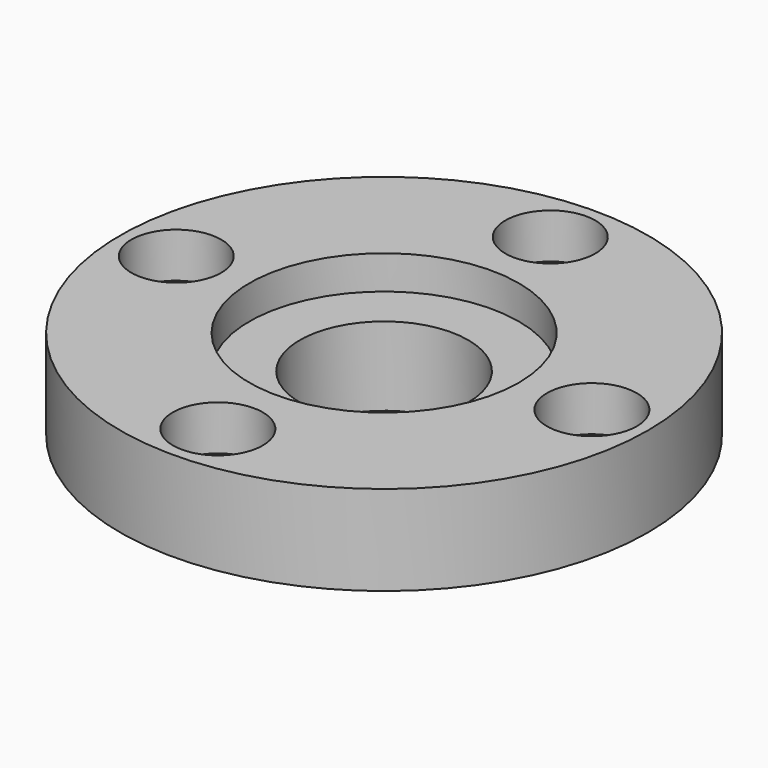
from build123d import *

# Parameters (mm, degrees)
F0_R           = 15
F1_DEPTH       = 2
F2_R           = 23.5
F3_DEPTH       = 8
F4_R           = 12
F5_DEPTH       = 3
F6_R           = 7.5
F7_DEPTH       = 7.001
F9_D           = 4.4
F9_CBORE_D     = 8
F9_CBORE_DEPTH = 4


with BuildPart() as f1:
    # F0 (on Top) → F1 (new body)
    with BuildSketch(Plane.XY):
        Circle(F0_R)
    extrude(amount=-F1_DEPTH)

    # F2 (on Top) → F3 (join)
    with BuildSketch(Plane.XY):
        Circle(F2_R)
    extrude(amount=F3_DEPTH)

    # F4 (on face) → F5 (cut)
    with BuildSketch(Plane.XY.offset(8)):
        Circle(F4_R)
    extrude(amount=-F5_DEPTH, mode=Mode.SUBTRACT)

    # F6 (on face) → F7 (cut, through all)
    with BuildSketch(Plane.XY.offset(5)):
        Circle(F6_R)
    extrude(amount=-F7_DEPTH, mode=Mode.SUBTRACT)

    # F9 (through all)
    with Locations(Plane.XY.offset(8)):
        with Locations((0, 18.5), (-18.5, 0), (0, -18.5), (18.5, 0)):
            CounterBoreHole(F9_D / 2, F9_CBORE_D / 2, F9_CBORE_DEPTH)


solid = f1.part
